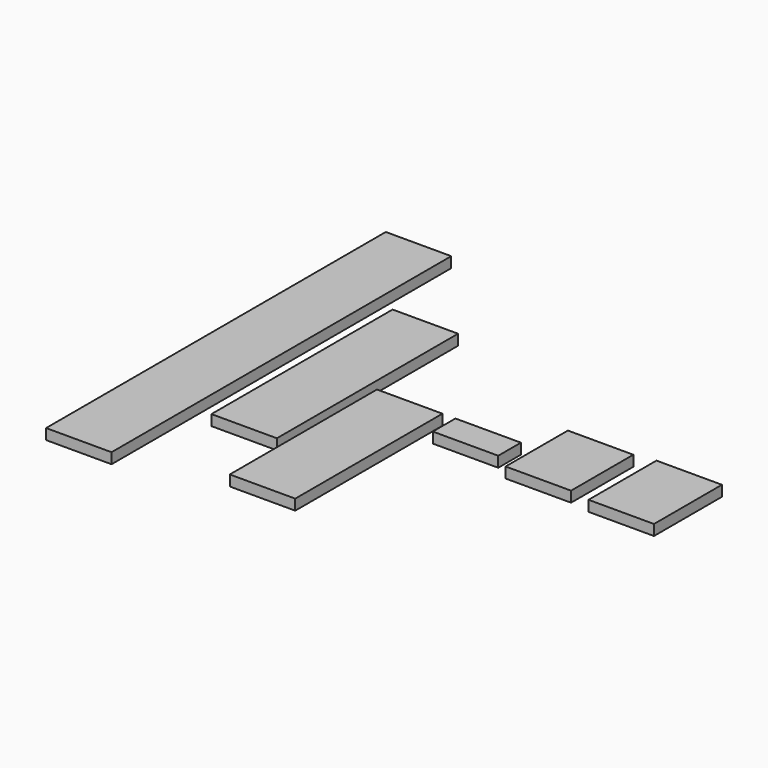
from build123d import *

# Parameters (mm, degrees)
F0_W      = 234.95
F0_H      = 38.1
F1_DEPTH  = 762
F2_W      = 234.95
F2_H      = 38.1
F3_DEPTH  = 406.4
F4_W      = 234.95
F4_H      = 38.1
F5_DEPTH  = 660.4
F6_W      = 234.95
F6_H      = 38.1
F7_DEPTH  = 101.6
F8_W      = 234.95
F8_H      = 38.1
F9_DEPTH  = 139.7
F10_W     = 234.95
F10_H     = 38.1
F11_DEPTH = 152.4


with BuildPart() as f1:
    # F0 (on Front) → F1 (new body, symmetric)
    with BuildSketch(Plane.XZ):
        Rectangle(F0_W, F0_H)
    extrude(amount=F1_DEPTH, both=True)


with BuildPart() as f3:
    # F2 (on Front) → F3 (new body, symmetric)
    with BuildSketch(Plane.XZ):
        with Locations((308.961176, 0)):
            Rectangle(F2_W, F2_H)
    extrude(amount=F3_DEPTH, both=True)


with BuildPart() as f5:
    # F4 (on Front) → F5 (new body)
    with BuildSketch(Plane.XZ):
        with Locations((578.005398, 0)):
            Rectangle(F4_W, F4_H)
    extrude(amount=F5_DEPTH)


with BuildPart() as f7:
    # F6 (on Front) → F7 (new body)
    with BuildSketch(Plane.XZ):
        with Locations((859.621048, 0)):
            Rectangle(F6_W, F6_H)
    extrude(amount=F7_DEPTH)


with BuildPart() as f9:
    # F8 (on Front) → F9 (new body, symmetric)
    with BuildSketch(Plane.XZ):
        with Locations((1151.38877, 0)):
            Rectangle(F8_W, F8_H)
    extrude(amount=F9_DEPTH, both=True)


with BuildPart() as f11:
    # F10 (on Front) → F11 (new body, symmetric)
    with BuildSketch(Plane.XZ):
        with Locations((1459.19919, 0)):
            Rectangle(F10_W, F10_H)
    extrude(amount=F11_DEPTH, both=True)


solid = Compound([f1.part, f3.part, f5.part, f7.part, f9.part, f11.part])
